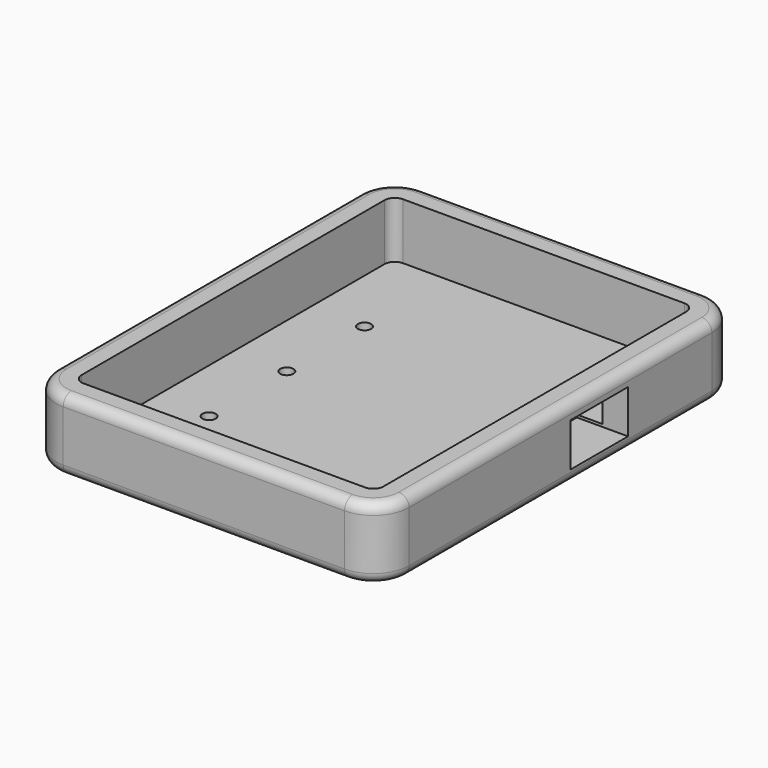
from build123d import *

# Parameters (mm, degrees)
SKETCH023_W     = 69
SKETCH023_H     = 88
SKETCH023_R     = 1.3
PAD006_DEPTH    = 14
SKETCH024_W     = 59
SKETCH024_H     = 78
POCKET014_DEPTH = 11
SKETCH025_R     = 3
SKETCH025_R_2   = 2.5
POCKET015_DEPTH = 1
FILLET006_R     = 7
FILLET007_R     = 2
SKETCH026_W     = 14
SKETCH026_H     = 8.5
POCKET016_DEPTH = 10


with BuildPart() as part:
    # Sketch023 → Pad006 (new body)
    with BuildSketch(Plane.XY):
        with Locations((34.5, 44)):
            Rectangle(SKETCH023_W, SKETCH023_H)
        with Locations((15.5, 63)):
            Circle(SKETCH023_R, mode=Mode.SUBTRACT)
        with Locations((15.5, 44)):
            Circle(SKETCH023_R, mode=Mode.SUBTRACT)
        with Locations((15.5, 25)):
            Circle(SKETCH023_R, mode=Mode.SUBTRACT)
        with Locations((53.5, 25)):
            Circle(SKETCH023_R, mode=Mode.SUBTRACT)
        with Locations((53.5, 44)):
            Circle(SKETCH023_R, mode=Mode.SUBTRACT)
        with Locations((53.5, 63)):
            Circle(SKETCH023_R, mode=Mode.SUBTRACT)
    extrude(amount=PAD006_DEPTH)

    # Sketch024 (on Face12 of Pad006) → Pocket014 (cut)
    with BuildSketch(Plane.XY.offset(14)):
        with Locations((34.5, 44)):
            Rectangle(SKETCH024_W, SKETCH024_H)
    extrude(amount=-POCKET014_DEPTH, mode=Mode.SUBTRACT)

    # Sketch025 (on Face4 of Pocket014) → Pocket015 (cut)
    with BuildSketch(Plane(origin=(0, 0, 0), x_dir=(1, 0, 0), z_dir=(0, 0, -1))):
        with Locations((6, -6)):
            Circle(SKETCH025_R)
        with Locations((63, -6)):
            Circle(SKETCH025_R)
        with Locations((63, -82)):
            Circle(SKETCH025_R)
        with Locations((6, -82)):
            Circle(SKETCH025_R)
        with Locations((15.5, -25)):
            Circle(SKETCH025_R_2)
        with Locations((15.5, -44)):
            Circle(SKETCH025_R_2)
        with Locations((15.5, -63)):
            Circle(SKETCH025_R_2)
        with Locations((53.5, -63)):
            Circle(SKETCH025_R_2)
        with Locations((53.5, -44)):
            Circle(SKETCH025_R_2)
        with Locations((53.5, -25)):
            Circle(SKETCH025_R_2)
    extrude(amount=-POCKET015_DEPTH, mode=Mode.SUBTRACT)

    # Fillet006
    fillet006_edges = [part.edges().sort_by_distance(p)[0] for p in [
        (69, 88, 7),
        (0, 88, 7),
        (0, 0, 7),
        (69, 0, 7),
    ]]
    fillet(fillet006_edges, radius=FILLET006_R)

    # Fillet007
    fillet007_edges = [part.edges().sort_by_distance(p)[0] for p in [
        (64, 5, 8.5),
        (64, 83, 8.5),
        (5, 83, 8.5),
        (5, 5, 8.5),
        (0, 44, 14),
        (0, 44, 0),
    ]]
    fillet(fillet007_edges, radius=FILLET007_R)

    # Sketch026 (on Face13 of Fillet007) → Pocket016 (cut)
    with BuildSketch(Plane.YZ.offset(69)):
        with Locations((53.5, 6.75)):
            Rectangle(SKETCH026_W, SKETCH026_H)
    extrude(amount=-POCKET016_DEPTH, mode=Mode.SUBTRACT)


solid = part.part
